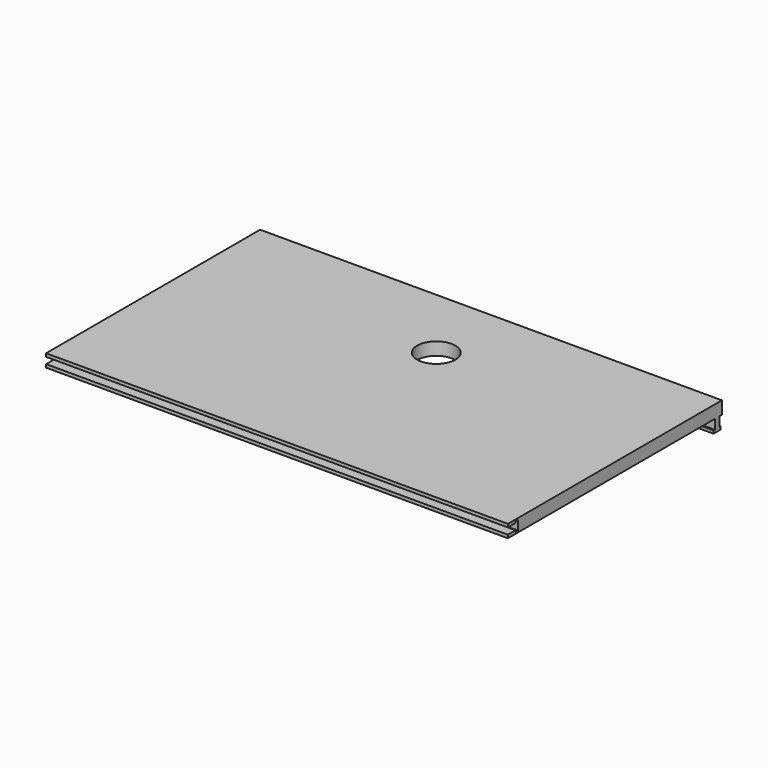
from build123d import *

# Parameters (mm, degrees)
SKETCH150_W     = 145
SKETCH150_H     = 84
SKETCH150_R     = 6
PAD073_DEPTH    = 4
SKETCH179_W     = 1.8
SKETCH179_H     = 3
SKETCH179_W_2   = 2.8
SKETCH179_H_2   = 0.9
PAD084_DEPTH    = 145
SKETCH184_W     = 3
SKETCH184_H     = 2
SKETCH184_W_2   = 1
SKETCH184_H_2   = 3
POCKET108_DEPTH = 145


with BuildPart() as part:
    # Sketch150 → Pad073 (new body)
    with BuildSketch(Plane.XY):
        with Locations((72.5, 42)):
            Rectangle(SKETCH150_W, SKETCH150_H)
        with Locations((74.5, 60)):
            Circle(SKETCH150_R, mode=Mode.SUBTRACT)
    extrude(amount=PAD073_DEPTH)

    # Sketch179 → Pad084 (join)
    with BuildSketch(Plane.YZ):
        with Locations((82.1, -1.5)):
            Rectangle(SKETCH179_W, SKETCH179_H)
        with Locations((82.1, -3.45)):
            Rectangle(SKETCH179_W_2, SKETCH179_H_2)
    extrude(amount=PAD084_DEPTH)

    # Sketch184 → Pocket108 (cut)
    with BuildSketch(Plane.YZ):
        with Locations((1.5, 2)):
            Rectangle(SKETCH184_W, SKETCH184_H)
        with Locations((3.5, 2)):
            Rectangle(SKETCH184_W_2, SKETCH184_H_2)
    extrude(amount=POCKET108_DEPTH, mode=Mode.SUBTRACT)


solid = part.part
